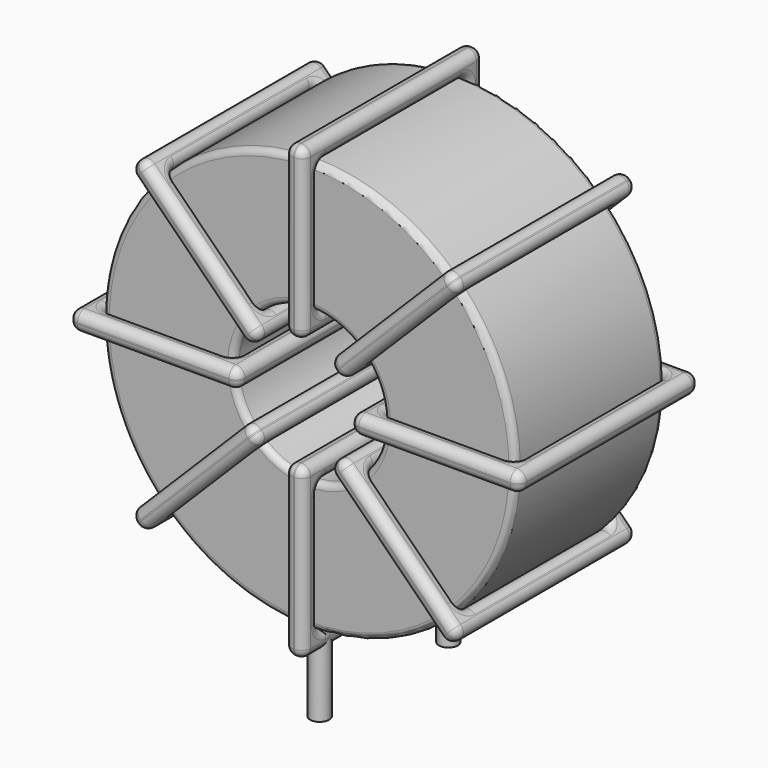
from build123d import *

# Parameters (mm, degrees)
SKETCH001_R       = 0.75
PAD001_DEPTH      = 1.5
PAD001_DEPTH_BACK = 5
SKETCH_R          = 16.28
SKETCH_R_2        = 5.926667
PAD_DEPTH         = 7.39
FILLET_R          = 0.5
SKETCH003_W       = 13.353333
SKETCH003_H       = 17.78
SKETCH003_W_2     = 10.353333
SKETCH003_H_2     = 14.78
PAD002_DEPTH      = 0.75
FILLET001_R       = 0.705
SKETCH004_W       = 13.353333
SKETCH004_H       = 17.78
SKETCH004_W_2     = 10.353333
SKETCH004_H_2     = 14.78
PAD003_DEPTH      = 0.75
FILLET002_R       = 0.705
SKETCH005_W       = 13.353333
SKETCH005_H       = 17.78
SKETCH005_W_2     = 10.353333
SKETCH005_H_2     = 14.78
PAD004_DEPTH      = 0.75
FILLET003_R       = 0.705
SKETCH006_W       = 13.353333
SKETCH006_H       = 17.78
SKETCH006_W_2     = 10.353333
SKETCH006_H_2     = 14.78
PAD005_DEPTH      = 0.75
FILLET004_R       = 0.705


with BuildPart() as pad001:
    # Sketch001 → Pad001 (new body, two sides)
    with BuildSketch(Plane.XY.offset(2)) as pad001_sk:
        Circle(SKETCH001_R)
        with Locations((0, -12.7)):
            Circle(SKETCH001_R)
    extrude(amount=PAD001_DEPTH)
    extrude(pad001_sk.sketch, amount=-PAD001_DEPTH_BACK)


with BuildPart() as fillet_body:
    # Sketch → Pad (new body, symmetric)
    with BuildSketch(Plane.XZ.offset(6.35)):
        with Locations((0, 19.78)):
            Circle(SKETCH_R)
        with Locations((0, 19.78)):
            Circle(SKETCH_R_2, mode=Mode.SUBTRACT)
    extrude(amount=PAD_DEPTH, both=True)

    # Fillet
    fillet_edges = [fillet_body.edges().sort_by_distance(p)[0] for p in [
        (-5.926667, -13.74, 19.78),
        (-16.28, -13.74, 19.78),
        (-16.28, 1.04, 19.78),
    ]]
    fillet(fillet_edges, radius=FILLET_R)


with BuildPart() as fillet001:
    # Sketch003 → Pad002 (new body, symmetric)
    with BuildSketch(Plane(origin=(0, 2.54, 19.78), x_dir=(1, 0, 0), z_dir=(0, 0, -1))):
        with Locations((-11.103333, 8.89)):
            Rectangle(SKETCH003_W, SKETCH003_H)
        with Locations((-11.103333, 8.89)):
            Rectangle(SKETCH003_W_2, SKETCH003_H_2, mode=Mode.SUBTRACT)
        with Locations((11.103333, 8.89)):
            Rectangle(SKETCH003_W, SKETCH003_H)
        with Locations((11.103333, 8.89)):
            Rectangle(SKETCH003_W_2, SKETCH003_H_2, mode=Mode.SUBTRACT)
    extrude(amount=PAD002_DEPTH, both=True)

    # Fillet001
    fillet001_edges = [fillet001.edges().sort_by_distance(p)[0] for p in [
        (-5.926667, -13.74, 19.78),
        (-5.926667, 1.04, 19.78),
        (-5.926667, -6.35, 20.53),
        (-5.926667, -6.35, 19.03),
        (-17.78, -15.24, 19.78),
        (-4.426667, -15.24, 19.78),
        (-11.103333, -15.24, 20.53),
        (-11.103333, -15.24, 19.03),
        (-4.426667, 2.54, 19.78),
        (-4.426667, -6.35, 20.53),
        (-4.426667, -6.35, 19.03),
        (5.926667, -13.74, 19.78),
        (16.28, -13.74, 19.78),
        (11.103333, -13.74, 20.53),
        (11.103333, -13.74, 19.03),
        (16.28, 1.04, 19.78),
        (16.28, -6.35, 20.53),
        (16.28, -6.35, 19.03),
        (4.426667, -15.24, 19.78),
        (17.78, -15.24, 19.78),
        (11.103333, -15.24, 20.53),
        (11.103333, -15.24, 19.03),
        (17.78, 2.54, 19.78),
        (17.78, -6.35, 20.53),
        (17.78, -6.35, 19.03),
        (-16.28, -13.74, 19.78),
        (-11.103333, -13.74, 20.53),
        (-11.103333, -13.74, 19.03),
        (5.926667, 1.04, 19.78),
        (5.926667, -6.35, 20.53),
        (5.926667, -6.35, 19.03),
        (11.103333, 1.04, 20.53),
        (11.103333, 1.04, 19.03),
        (4.426667, 2.54, 19.78),
        (11.103333, 2.54, 20.53),
        (11.103333, 2.54, 19.03),
        (4.426667, -6.35, 20.53),
        (4.426667, -6.35, 19.03),
        (-17.78, 2.54, 19.78),
        (-11.103333, 2.54, 20.53),
        (-11.103333, 2.54, 19.03),
        (-17.78, -6.35, 20.53),
        (-17.78, -6.35, 19.03),
        (-16.28, 1.04, 19.78),
        (-16.28, -6.35, 20.53),
        (-16.28, -6.35, 19.03),
        (-11.103333, 1.04, 20.53),
        (-11.103333, 1.04, 19.03),
    ]]
    fillet(fillet001_edges, radius=FILLET001_R)


with BuildPart() as fillet002:
    # Sketch004 → Pad003 (new body, symmetric)
    with BuildSketch(Plane(origin=(0, 2.54, 19.78), x_dir=(0.707108, 0, 0.707106), z_dir=(0.707106, 0, -0.707108))):
        with Locations((-11.103333, 8.89)):
            Rectangle(SKETCH004_W, SKETCH004_H)
        with Locations((-11.103333, 8.89)):
            Rectangle(SKETCH004_W_2, SKETCH004_H_2, mode=Mode.SUBTRACT)
        with Locations((11.103333, 8.89)):
            Rectangle(SKETCH004_W, SKETCH004_H)
        with Locations((11.103333, 8.89)):
            Rectangle(SKETCH004_W_2, SKETCH004_H_2, mode=Mode.SUBTRACT)
    extrude(amount=PAD003_DEPTH, both=True)

    # Fillet002
    fillet002_edges = [fillet002.edges().sort_by_distance(p)[0] for p in [
        (-4.190791, -13.74, 15.589219),
        (-4.190791, 1.04, 15.589219),
        (-4.721121, -6.35, 16.119549),
        (-3.660462, -6.35, 15.058888),
        (-12.572373, -15.24, 7.207656),
        (-3.13013, -15.24, 16.649878),
        (-8.381581, -15.24, 12.459097),
        (-7.320922, -15.24, 11.398436),
        (-3.13013, 2.54, 16.649878),
        (-3.660459, -6.35, 17.180208),
        (-2.5998, -6.35, 16.119547),
        (4.190791, -13.74, 23.970781),
        (11.511712, -13.74, 31.291685),
        (7.320922, -13.74, 28.161564),
        (8.381581, -13.74, 27.100903),
        (11.511712, 1.04, 31.291685),
        (10.981382, -6.35, 31.822016),
        (12.042041, -6.35, 30.761354),
        (3.13013, -15.24, 22.910122),
        (12.572373, -15.24, 32.352344),
        (7.320922, -15.24, 28.161564),
        (8.381581, -15.24, 27.100903),
        (12.572373, 2.54, 32.352344),
        (12.042044, -6.35, 32.882675),
        (13.102703, -6.35, 31.822013),
        (-11.511712, -13.74, 8.268315),
        (-8.381581, -13.74, 12.459097),
        (-7.320922, -13.74, 11.398436),
        (4.190791, 1.04, 23.970781),
        (3.660462, -6.35, 24.501112),
        (4.721121, -6.35, 23.440451),
        (7.320922, 1.04, 28.161564),
        (8.381581, 1.04, 27.100903),
        (3.13013, 2.54, 22.910122),
        (7.320922, 2.54, 28.161564),
        (8.381581, 2.54, 27.100903),
        (2.5998, -6.35, 23.440453),
        (3.660459, -6.35, 22.379792),
        (-12.572373, 2.54, 7.207656),
        (-8.381581, 2.54, 12.459097),
        (-7.320922, 2.54, 11.398436),
        (-13.102703, -6.35, 7.737987),
        (-12.042044, -6.35, 6.677325),
        (-11.511712, 1.04, 8.268315),
        (-12.042041, -6.35, 8.798646),
        (-10.981382, -6.35, 7.737984),
        (-8.381581, 1.04, 12.459097),
        (-7.320922, 1.04, 11.398436),
    ]]
    fillet(fillet002_edges, radius=FILLET002_R)


with BuildPart() as fillet003:
    # Sketch005 → Pad004 (new body, symmetric)
    with BuildSketch(Plane(origin=(0, 2.54, 19.78), x_dir=(0.707108, 0, -0.707106), z_dir=(-0.707106, 0, -0.707108))):
        with Locations((-11.103333, 8.89)):
            Rectangle(SKETCH005_W, SKETCH005_H)
        with Locations((-11.103333, 8.89)):
            Rectangle(SKETCH005_W_2, SKETCH005_H_2, mode=Mode.SUBTRACT)
        with Locations((11.103333, 8.89)):
            Rectangle(SKETCH005_W, SKETCH005_H)
        with Locations((11.103333, 8.89)):
            Rectangle(SKETCH005_W_2, SKETCH005_H_2, mode=Mode.SUBTRACT)
    extrude(amount=PAD004_DEPTH, both=True)

    # Fillet003
    fillet003_edges = [fillet003.edges().sort_by_distance(p)[0] for p in [
        (11.511712, -13.74, 8.268315),
        (11.511712, 1.04, 8.268315),
        (12.042041, -6.35, 8.798646),
        (10.981382, -6.35, 7.737984),
        (12.572373, 2.54, 7.207656),
        (12.572373, -15.24, 7.207656),
        (13.102703, -6.35, 7.737987),
        (12.042044, -6.35, 6.677325),
        (3.13013, 2.54, 16.649878),
        (8.381581, -15.24, 12.459097),
        (7.320922, -15.24, 11.398436),
        (-11.511712, 1.04, 31.291685),
        (-11.511712, -13.74, 31.291685),
        (-10.981382, -6.35, 31.822016),
        (-12.042041, -6.35, 30.761354),
        (-4.190791, 1.04, 23.970781),
        (-7.320922, 1.04, 28.161564),
        (-8.381581, 1.04, 27.100903),
        (-3.13013, 2.54, 22.910122),
        (-12.572373, 2.54, 32.352344),
        (-7.320922, 2.54, 28.161564),
        (-8.381581, 2.54, 27.100903),
        (-12.572373, -15.24, 32.352344),
        (-12.042044, -6.35, 32.882675),
        (-13.102703, -6.35, 31.822013),
        (4.190791, -13.74, 15.589219),
        (8.381581, -13.74, 12.459097),
        (7.320922, -13.74, 11.398436),
        (-4.190791, -13.74, 23.970781),
        (-7.320922, -13.74, 28.161564),
        (-8.381581, -13.74, 27.100903),
        (-3.660462, -6.35, 24.501112),
        (-4.721121, -6.35, 23.440451),
        (-3.13013, -15.24, 22.910122),
        (-7.320922, -15.24, 28.161564),
        (-8.381581, -15.24, 27.100903),
        (-2.5998, -6.35, 23.440453),
        (-3.660459, -6.35, 22.379792),
        (3.13013, -15.24, 16.649878),
        (3.660459, -6.35, 17.180208),
        (2.5998, -6.35, 16.119547),
        (8.381581, 2.54, 12.459097),
        (7.320922, 2.54, 11.398436),
        (4.190791, 1.04, 15.589219),
        (4.721121, -6.35, 16.119549),
        (3.660462, -6.35, 15.058888),
        (8.381581, 1.04, 12.459097),
        (7.320922, 1.04, 11.398436),
    ]]
    fillet(fillet003_edges, radius=FILLET003_R)


with BuildPart() as fillet004:
    # Sketch006 → Pad005 (new body, symmetric)
    with BuildSketch(Plane(origin=(0, 2.54, 19.78), x_dir=(0, 0, 1), z_dir=(1, 0, 0))):
        with Locations((-11.103333, 8.89)):
            Rectangle(SKETCH006_W, SKETCH006_H)
        with Locations((-11.103333, 8.89)):
            Rectangle(SKETCH006_W_2, SKETCH006_H_2, mode=Mode.SUBTRACT)
        with Locations((11.103333, 8.89)):
            Rectangle(SKETCH006_W, SKETCH006_H)
        with Locations((11.103333, 8.89)):
            Rectangle(SKETCH006_W_2, SKETCH006_H_2, mode=Mode.SUBTRACT)
    extrude(amount=PAD005_DEPTH, both=True)

    # Fillet004
    fillet004_edges = [fillet004.edges().sort_by_distance(p)[0] for p in [
        (0, -13.74, 13.853333),
        (0, 1.04, 13.853333),
        (-0.75, -6.35, 13.853333),
        (0.75, -6.35, 13.853333),
        (0, -15.24, 2),
        (0, -15.24, 15.353333),
        (-0.75, -15.24, 8.676667),
        (0.75, -15.24, 8.676667),
        (0, 2.54, 15.353333),
        (-0.75, -6.35, 15.353333),
        (0.75, -6.35, 15.353333),
        (0, -13.74, 25.706667),
        (0, -13.74, 36.06),
        (-0.75, -13.74, 30.883333),
        (0.75, -13.74, 30.883333),
        (0, 1.04, 36.06),
        (-0.75, -6.35, 36.06),
        (0.75, -6.35, 36.06),
        (0, -15.24, 24.206667),
        (0, -15.24, 37.56),
        (-0.75, -15.24, 30.883333),
        (0.75, -15.24, 30.883333),
        (0, 2.54, 37.56),
        (-0.75, -6.35, 37.56),
        (0.75, -6.35, 37.56),
        (0, -13.74, 3.5),
        (-0.75, -13.74, 8.676667),
        (0.75, -13.74, 8.676667),
        (0, 1.04, 25.706667),
        (-0.75, -6.35, 25.706667),
        (0.75, -6.35, 25.706667),
        (-0.75, 1.04, 30.883333),
        (0.75, 1.04, 30.883333),
        (0, 2.54, 24.206667),
        (-0.75, 2.54, 30.883333),
        (0.75, 2.54, 30.883333),
        (-0.75, -6.35, 24.206667),
        (0.75, -6.35, 24.206667),
        (0, 2.54, 2),
        (-0.75, 2.54, 8.676667),
        (0.75, 2.54, 8.676667),
        (-0.75, -6.35, 2),
        (0.75, -6.35, 2),
        (0, 1.04, 3.5),
        (-0.75, -6.35, 3.5),
        (0.75, -6.35, 3.5),
        (-0.75, 1.04, 8.676667),
        (0.75, 1.04, 8.676667),
    ]]
    fillet(fillet004_edges, radius=FILLET004_R)


solid = Compound([pad001.part, fillet_body.part, fillet001.part, fillet002.part, fillet003.part, fillet004.part])
